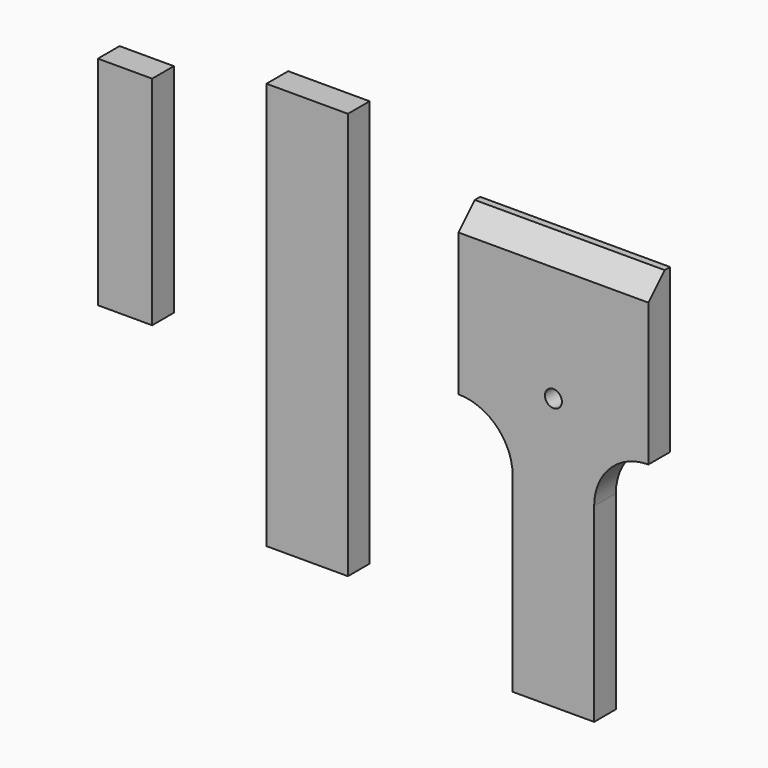
from build123d import *

# Parameters (mm, degrees)
F0_R     = 15.875
F0_W     = 152.4
F0_H     = 762
F0_W_2   = 101.6
F0_H_2   = 406.4
F1_DEPTH = 50.8
F2_SIZE  = 38.1


with BuildPart() as f1:
    # F0 (on Front) → F1 (new body)
    with BuildSketch(Plane.XZ):
        with BuildLine():
            Line((-39.428816, -197.359), (36.771184, -197.359))
            Line((36.771184, -197.359), (36.771184, 4.266582))
            Line((36.771184, 4.266582), (36.771184, 158.241))
            ThreePointArc((36.771184, 158.241), (66.529135, 230.083049), (138.371184, 259.841))
            Line((138.371184, 259.841), (138.371184, 564.641))
            Line((138.371184, 564.641), (-39.428816, 564.641))
            Line((-39.428816, 564.641), (-217.228816, 564.641))
            Line((-217.228816, 564.641), (-217.228816, 259.841))
            ThreePointArc((-217.228816, 259.841), (-145.386767, 230.083049), (-115.628816, 158.241))
            Line((-115.628816, 158.241), (-115.628816, 4.266582))
            Line((-115.628816, 4.266582), (-115.628816, -197.359))
            Line((-115.628816, -197.359), (-39.428816, -197.359))
        make_face()
        with Locations((-39.428816, 310.641)):
            Circle(F0_R, mode=Mode.SUBTRACT)
        with Locations((-500.312694, 273.815813)):
            Rectangle(F0_W, F0_H)
        with Locations((-841.259863, 390.338692)):
            Rectangle(F0_W_2, F0_H_2)
    extrude(amount=F1_DEPTH)

    # F2
    f2_edges = [f1.edges().sort_by_distance(p)[0] for p in [
        (-39.428816, -50.8, 564.641),
    ]]
    chamfer(f2_edges, length=F2_SIZE)


solid = f1.part
